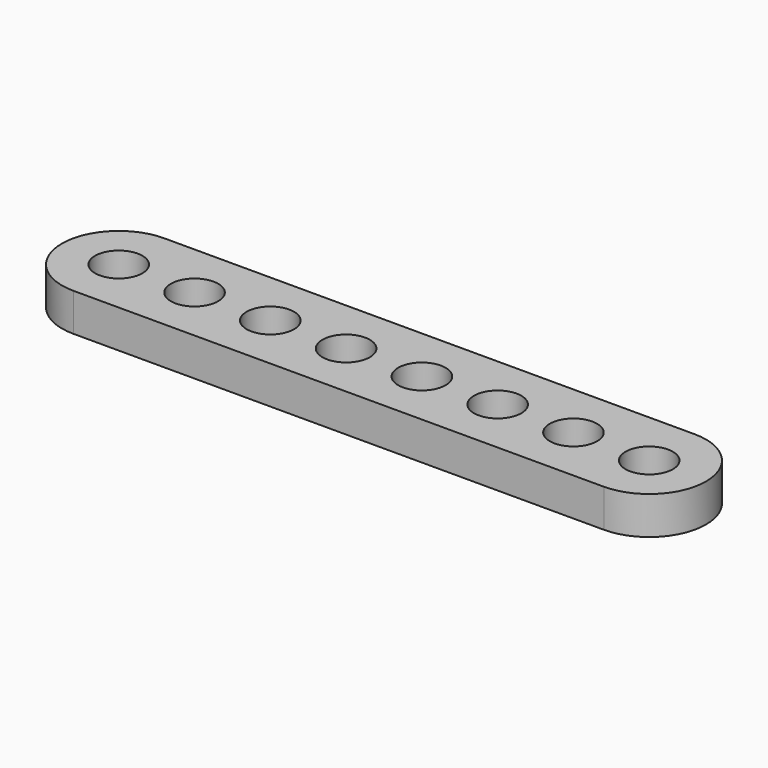
from build123d import *

# Parameters (mm, degrees)
F0_R     = 1.25
F1_DEPTH = 2


with BuildPart() as f1:
    # F0 (on Top) → F1 (new body)
    with BuildSketch(Plane.XY):
        with BuildLine():
            ThreePointArc((0, 3), (-3, 0), (0, -3))
            Line((0, -3), (28, -3))
            ThreePointArc((28, -3), (31, 0), (28, 3))
            Line((28, 3), (0, 3))
        make_face()
        Circle(F0_R, mode=Mode.SUBTRACT)
        with Locations((4, 0)):
            Circle(F0_R, mode=Mode.SUBTRACT)
        with Locations((8, 0)):
            Circle(F0_R, mode=Mode.SUBTRACT)
        with Locations((12, 0)):
            Circle(F0_R, mode=Mode.SUBTRACT)
        with Locations((16, 0)):
            Circle(F0_R, mode=Mode.SUBTRACT)
        with Locations((20, 0)):
            Circle(F0_R, mode=Mode.SUBTRACT)
        with Locations((24, 0)):
            Circle(F0_R, mode=Mode.SUBTRACT)
        with Locations((28, 0)):
            Circle(F0_R, mode=Mode.SUBTRACT)
    extrude(amount=F1_DEPTH)


solid = f1.part
